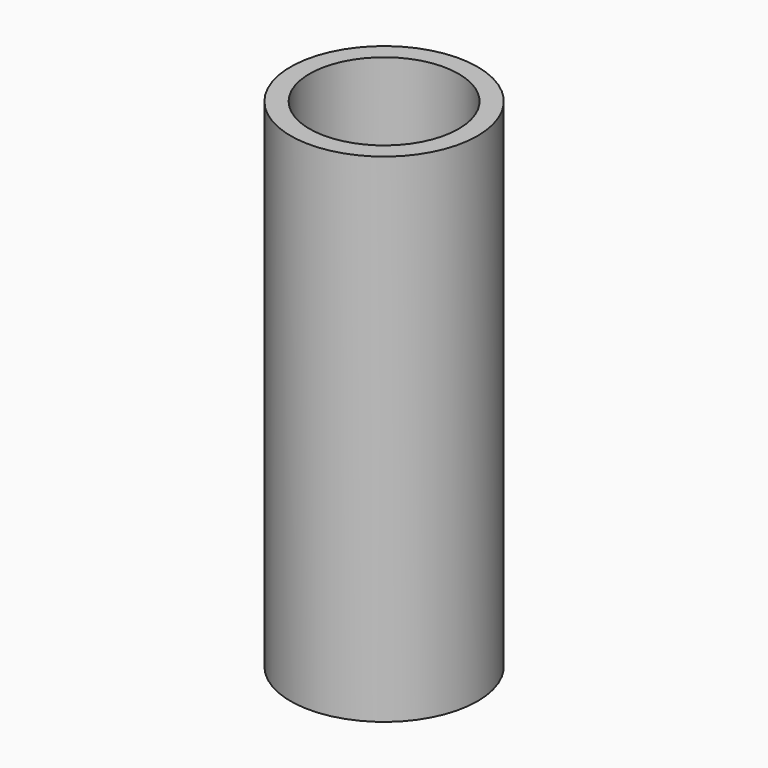
from build123d import *

# Parameters (mm, degrees)
SKETCH_R   = 16.7005
SKETCH_R_2 = 13.3223
PAD_DEPTH  = 88.9


with BuildPart() as part:
    # Sketch → Pad (new body)
    with BuildSketch(Plane.XY):
        Circle(SKETCH_R)
        Circle(SKETCH_R_2, mode=Mode.SUBTRACT)
    extrude(amount=PAD_DEPTH)


solid = part.part
